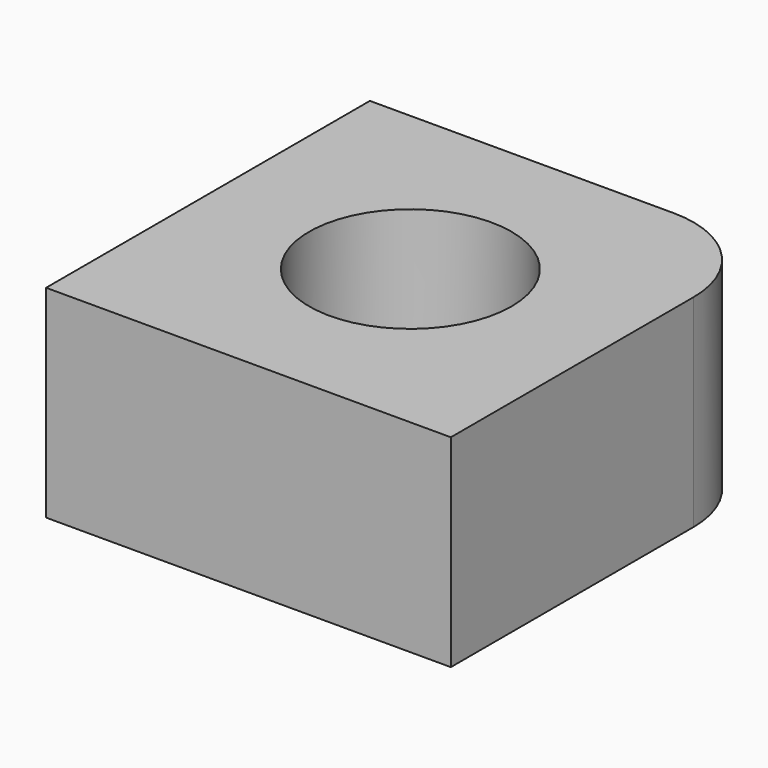
from build123d import *

# Parameters (mm, degrees)
F0_W     = 20
F0_H     = 20
F0_R     = 5
F1_DEPTH = 10
F2_R     = 5


with BuildPart() as f1:
    # F0 (on Top) → F1 (new body)
    with BuildSketch(Plane.XY):
        with Locations((10, 10)):
            Rectangle(F0_W, F0_H)
        with Locations((10, 10)):
            Circle(F0_R, mode=Mode.SUBTRACT)
    extrude(amount=F1_DEPTH)

    # F2
    f2_edges = [f1.edges().sort_by_distance(p)[0] for p in [
        (20, 20, 5),
    ]]
    fillet(f2_edges, radius=F2_R)


solid = f1.part
